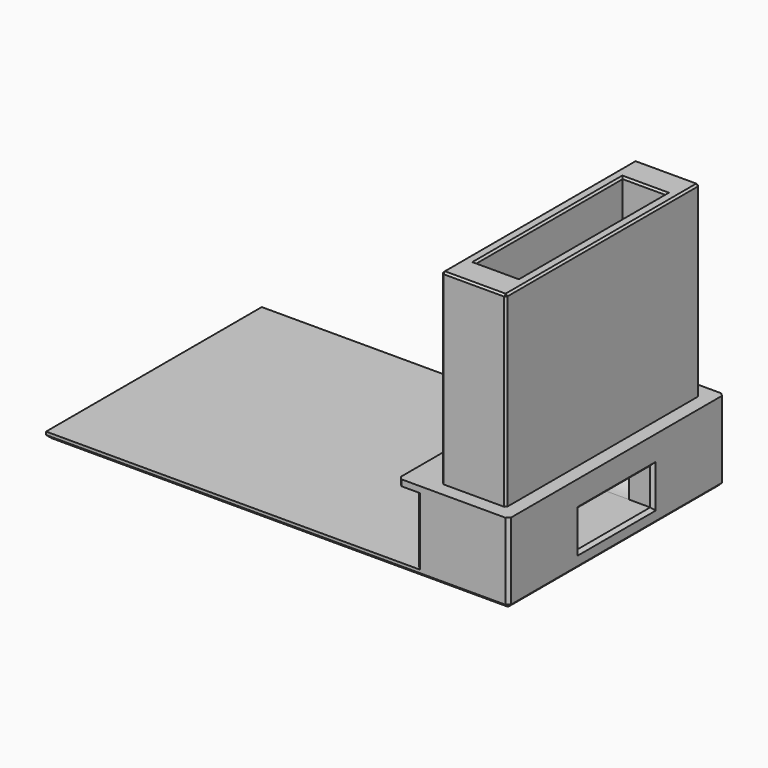
from build123d import *

# Parameters (mm, degrees)
SKETCH080_W     = 75.5
SKETCH080_H     = 44
PAD043_DEPTH    = 1
SKETCH081_W     = 15
SKETCH081_H     = 44
PAD044_DEPTH    = 11
SKETCH082_W     = 18
SKETCH082_H     = 44
PAD045_DEPTH    = 1
SKETCH083_W     = 10.5
SKETCH083_H     = 39.5
PAD046_DEPTH    = 30.5
SKETCH084_W     = 7
SKETCH084_H     = 30
POCKET029_DEPTH = 41
SKETCH085_W     = 15
SKETCH085_H     = 6
POCKET030_DEPTH = 15
FILLET012_R     = 7.5
CHAMFER047_SIZE = 0.5
CHAMFER048_SIZE = 0.3


with BuildPart() as part:
    # Sketch080 → Pad043 (new body)
    with BuildSketch(Plane.XY):
        with Locations((-30.25, 0)):
            Rectangle(SKETCH080_W, SKETCH080_H)
    extrude(amount=-PAD043_DEPTH)

    # Sketch081 (on Face5 of Pad043) → Pad044 (join)
    with BuildSketch(Plane.XY):
        Rectangle(SKETCH081_W, SKETCH081_H)
    extrude(amount=PAD044_DEPTH)

    # Sketch082 (on Face5 of Pad044) → Pad045 (join)
    with BuildSketch(Plane.XY.offset(11)):
        with Locations((-1.5, 0)):
            Rectangle(SKETCH082_W, SKETCH082_H)
    extrude(amount=PAD045_DEPTH)

    # Sketch083 (on Face7 of Pad045) → Pad046 (join)
    with BuildSketch(Plane.XY.offset(12)):
        Rectangle(SKETCH083_W, SKETCH083_H)
    extrude(amount=PAD046_DEPTH)

    # Sketch084 (on Face15 of Pad046) → Pocket029 (cut)
    with BuildSketch(Plane.XY.offset(42.5)):
        Rectangle(SKETCH084_W, SKETCH084_H)
    extrude(amount=-POCKET029_DEPTH, mode=Mode.SUBTRACT)

    # Sketch085 (on Face6 of Pocket029) → Pocket030 (cut)
    with BuildSketch(Plane.YZ.offset(7.5)):
        with Locations((0, 4.5)):
            Rectangle(SKETCH085_W, SKETCH085_H)
    extrude(amount=-POCKET030_DEPTH, mode=Mode.SUBTRACT)

    # Fillet012
    fillet012_edges = [part.edges().sort_by_distance(p)[0] for p in [
        (0, -15, 1.5),
        (0, 15, 1.5),
    ]]
    fillet(fillet012_edges, radius=FILLET012_R)

    # Chamfer047
    chamfer047_edges = [part.edges().sort_by_distance(p)[0] for p in [
        (7.5, -22, 5.5),
        (7.5, 22, 5.5),
        (7.5, 0, 7.5),
        (7.5, -7.5, 4.5),
        (7.5, 0, 1.5),
        (7.5, 7.5, 4.5),
        (7.5, 0, -1),
        (-30.25, -22, -1),
        (-7.5, -22, 5.5),
        (-10.5, -22, 11.5),
        (-68, 0, -1),
        (-30.25, 22, -1),
        (-7.5, 22, 5.5),
        (-10.5, 22, 11.5),
        (-7.5, 0, 7.5),
        (-7.5, -7.5, 4.5),
        (-7.5, 0, 1.5),
        (-7.5, 7.5, 4.5),
    ]]
    chamfer(chamfer047_edges, length=CHAMFER047_SIZE)

    # Chamfer048
    chamfer048_edges = [part.edges().sort_by_distance(p)[0] for p in [
        (0, 19.75, 42.5),
        (-5.25, 0, 42.5),
        (5.25, 0, 42.5),
        (0, -19.75, 42.5),
        (-3.5, 0, 42.5),
        (0, -15, 42.5),
        (3.5, 0, 42.5),
        (0, 15, 42.5),
        (-5.25, -19.75, 27.25),
        (5.25, -19.75, 27.25),
        (-5.25, 19.75, 27.25),
        (5.25, 19.75, 27.25),
    ]]
    chamfer(chamfer048_edges, length=CHAMFER048_SIZE)


with BuildPart() as part_1:
    # Body015 placement: moved
    add(part.part.moved(Location((106.5, 75, -138))))


solid = part_1.part
